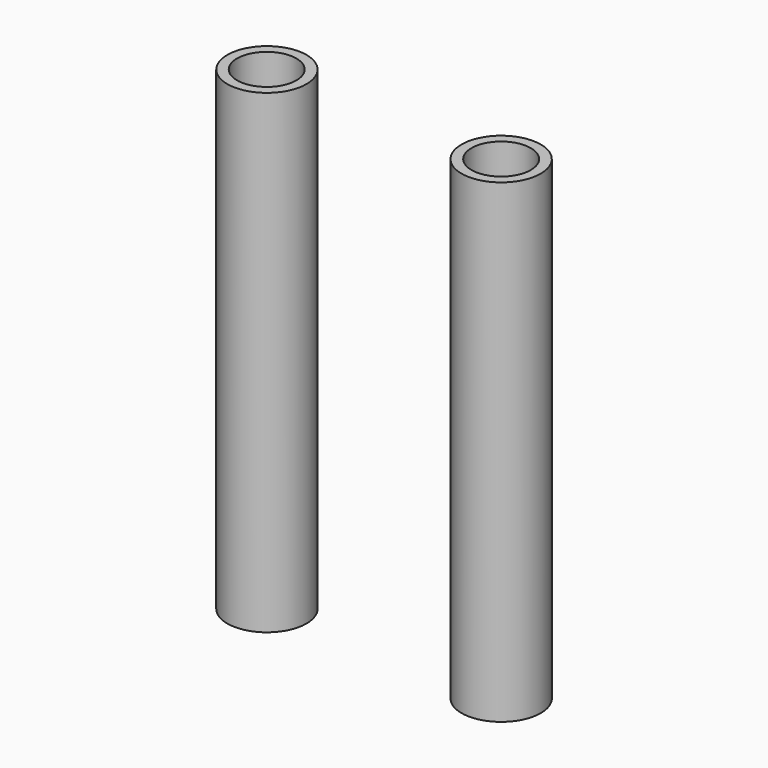
from build123d import *

# Parameters (mm, degrees)
F0_R     = 12.7
F0_R_2   = 9.525
F1_DEPTH = 152.4


with BuildPart() as f1:
    # F0 (on Top) → F1 (new body)
    with BuildSketch(Plane.XY):
        with Locations((-46.833682, 20.226395)):
            Circle(F0_R)
        with Locations((-46.894751, 20.22475)):
            Circle(F0_R_2, mode=Mode.SUBTRACT)
        with Locations((29.355498, 18.942307)):
            Circle(F0_R)
        with Locations((29.355498, 18.942307)):
            Circle(F0_R_2, mode=Mode.SUBTRACT)
    extrude(amount=F1_DEPTH)


solid = f1.part
